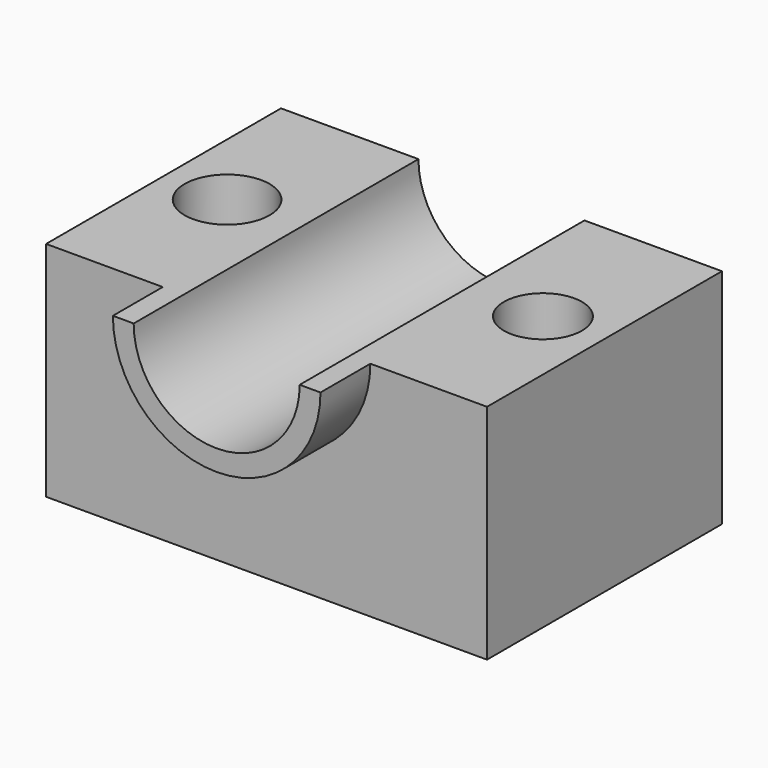
from build123d import *

# Parameters (mm, degrees)
F0_W     = 125.7711164653
F0_H     = 83.7514773011
F0_R     = 12.1092368637
F0_R_2   = 11.1364451926
F1_DEPTH = 63.5
F3_DEPTH = 17.78
F4_DEPTH = 98.044


with BuildPart() as f1:
    # F0 (on Top) → F1 (new body)
    with BuildSketch(Plane.XY):
        with Locations((-0.5756113678, 0)):
            Rectangle(F0_W, F0_H)
        with Locations((-45.3294068575, 0)):
            Circle(F0_R, mode=Mode.SUBTRACT)
        with Locations((44.7537973523, 0)):
            Circle(F0_R_2, mode=Mode.SUBTRACT)
    extrude(amount=F1_DEPTH)

    # F2 (on face) → F3 (join)
    with BuildSketch(Plane.XZ.offset(41.8757386506)):
        with BuildLine():
            Line((29.0334055844, 63.5), (23.0987426611, 63.5))
            ThreePointArc((23.0987426611, 63.5), (-0.5756113678, 39.8256459711), (-24.2499653967, 63.5))
            Line((-24.2499653967, 63.5), (-30.1846283201, 63.5))
            ThreePointArc((-30.1846283201, 63.5), (-0.5756113678, 33.8909830478), (29.0334055844, 63.5))
        make_face()
    extrude(amount=F3_DEPTH)

    # F4 (cut): a face of the model
    f4_faces = [f1.faces().sort_by_distance(p)[0] for p in [
        (-0.5756113678, -41.8757386506, 53.4522920848),
    ]]
    extrude(f4_faces, amount=-F4_DEPTH, mode=Mode.SUBTRACT)


solid = f1.part
